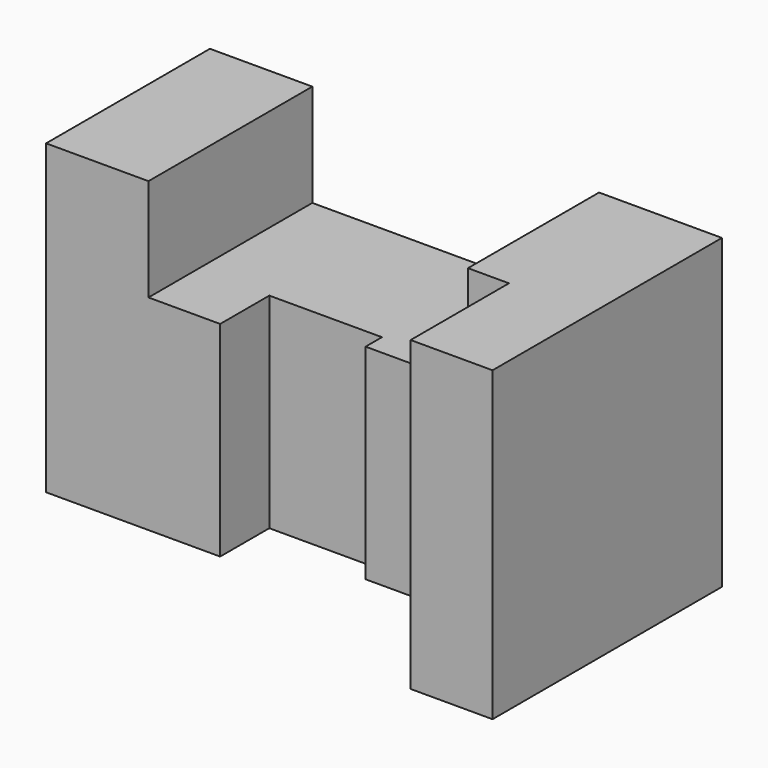
from build123d import *

# Parameters (mm, degrees)
F0_W     = 20
F0_H     = 75
F0_W_2   = 27.5
F0_H_2   = 50
F1_DEPTH = 25
F3_DEPTH = 50.001
F4_DEPTH = 20
F5_W     = 10
F5_H     = 30
F6_DEPTH = 75.001


with BuildPart() as f1:
    # F0 (on Front) → F1 (new body, symmetric)
    with BuildSketch(Plane.XZ):
        Polygon((0, 75), (0, 0), (42.5, 0), (42.5, 50), (25, 50), (25, 75), align=None)
        with Locations((115, 37.5)):
            Rectangle(F0_W, F0_H)
        with Locations((56.25, 25)):
            Rectangle(F0_W_2, F0_H_2)
        Polygon((70, 50), (70, 0), (105, 0), (105, 75), (95, 75), (95, 50), align=None)
    extrude(amount=F1_DEPTH, both=True)

    # F2 (on face) → F3 (cut, through all)
    with BuildSketch(Plane.XY.offset(50)):
        Polygon((70, -10), (42.5, -10), (42.5, -25), (95, -25), (95, -15), (70, -15), align=None)
    extrude(amount=-F3_DEPTH, mode=Mode.SUBTRACT)

    # F4 (add): a face of the model
    f4_faces = [f1.faces().sort_by_distance(p)[0] for p in [
        (110, -25, 37.5),
    ]]
    extrude(f4_faces, amount=F4_DEPTH)

    # F5 (on face) → F6 (cut, through all)
    with BuildSketch(Plane.XY.offset(75)):
        with Locations((100, -30)):
            Rectangle(F5_W, F5_H)
    extrude(amount=-F6_DEPTH, mode=Mode.SUBTRACT)


solid = f1.part
